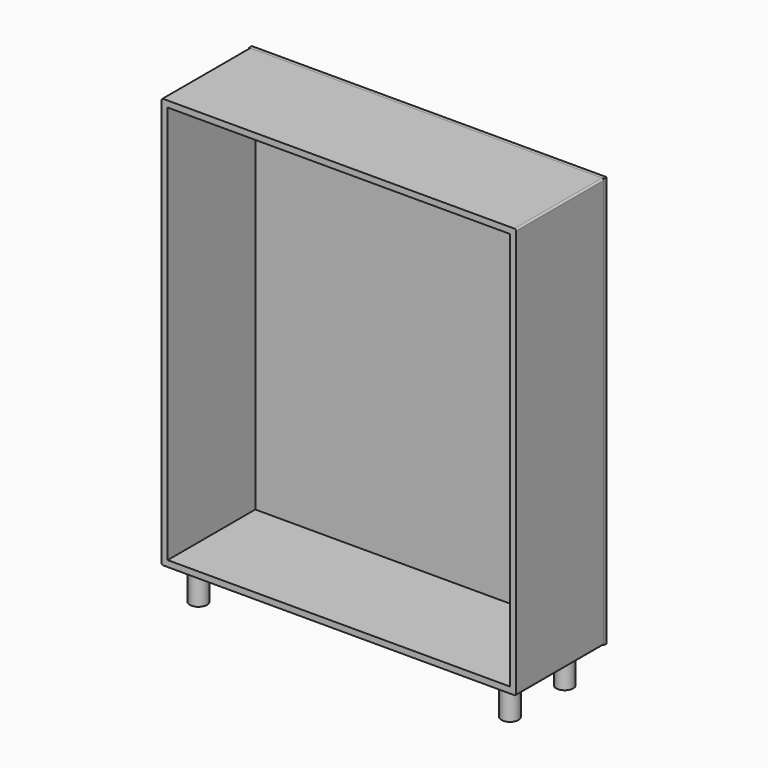
from build123d import *

# Parameters (mm, degrees)
F0_W     = 1036
F0_H     = 1200
F0_W_2   = 1000
F0_H_2   = 1164
F1_DEPTH = 320
F2_W     = 1036
F2_H     = 1200
F3_DEPTH = 10
F4_R     = 25
F5_DEPTH = 100
F6_R     = 5


with BuildPart() as f1:
    # F0 (on Front) → F1 (new body)
    with BuildSketch(Plane.XZ):
        with Locations((1.818649, -1.292639)):
            Rectangle(F0_W, F0_H)
        with Locations((1.818649, -1.292639)):
            Rectangle(F0_W_2, F0_H_2, mode=Mode.SUBTRACT)
    extrude(amount=F1_DEPTH)

    # F6
    f6_edges = [f1.edges().sort_by_distance(p)[0] for p in [
        (-516.181351, -160, 598.707361),
        (-516.181351, -160, -601.292639),
        (519.818649, -160, -601.292639),
        (519.818649, -160, 598.707361),
    ]]
    fillet(f6_edges, radius=F6_R)


with BuildPart() as f3:
    # F2 (on face) → F3 (new body)
    with BuildSketch(Plane(origin=(0, 0, 0), x_dir=(-1, 0, 0), z_dir=(0, 1, 0))):
        with Locations((-1.818649, -1.292639)):
            Rectangle(F2_W, F2_H)
    extrude(amount=F3_DEPTH)


with BuildPart() as f5:
    # F4 (on face) → F5 (new body)
    with BuildSketch(Plane(origin=(0, 0, -601.292639), x_dir=(1, 0, 0), z_dir=(0, 0, -1))):
        with Locations((-456.181351, 260)):
            Circle(F4_R)
        with Locations((-456.181351, 60)):
            Circle(F4_R)
        with Locations((453.818649, 260)):
            Circle(F4_R)
        with Locations((453.818649, 60)):
            Circle(F4_R)
    extrude(amount=F5_DEPTH)


solid = Compound([f1.part, f3.part, f5.part])
